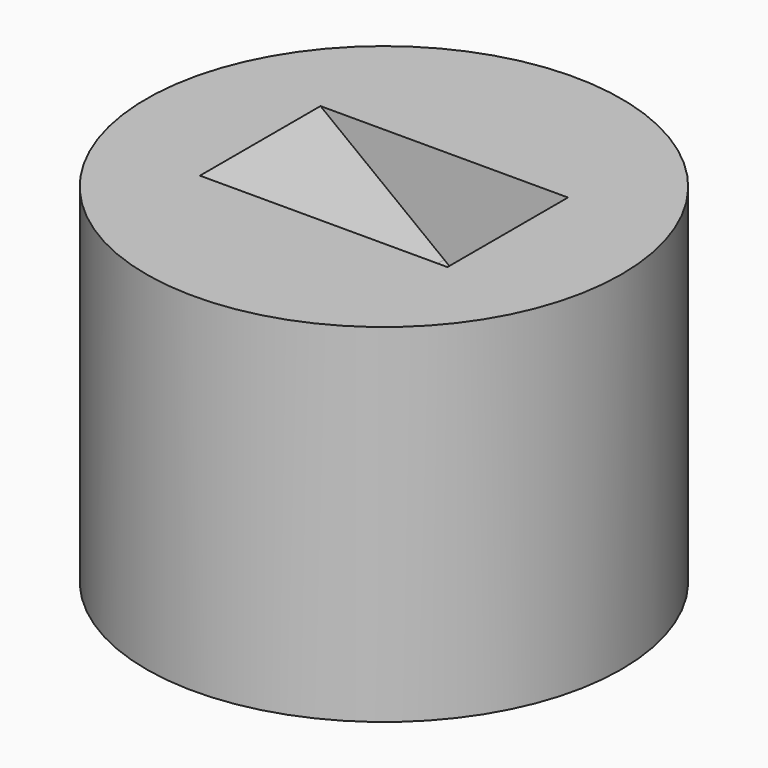
from build123d import *

# Parameters (mm, degrees)
F0_R          = 20.5
F1_DEPTH      = 15
F1_DEPTH_BACK = 15
F3_DEPTH      = 6.5
F3_DEPTH_BACK = 6.5


with BuildPart() as f1:
    # F0 (on Top) → F1 (new body, two sides)
    with BuildSketch(Plane.XY) as f1_sk:
        Circle(F0_R)
    extrude(amount=F1_DEPTH)
    extrude(f1_sk.sketch, amount=-F1_DEPTH_BACK)

    # F2 (on Front) → F3 (cut, two sides)
    with BuildSketch(Plane.XZ) as f3_sk:
        Polygon((-19.3154783201, 21.6282171097), (0, 6.8069293089), (0, 15), (-15.3585290316, 26.7850138216), align=None)
        Polygon((0, 15), (0, 6.8069293089), (5.5632907949, 2.53806614), (13.4771893721, 12.8516595638), (-11.401579743, 31.9418105335), (-15.3585290316, 26.7850138216), align=None)
    extrude(amount=-F3_DEPTH, mode=Mode.SUBTRACT)
    extrude(f3_sk.sketch, amount=F3_DEPTH_BACK, mode=Mode.SUBTRACT)


solid = f1.part
